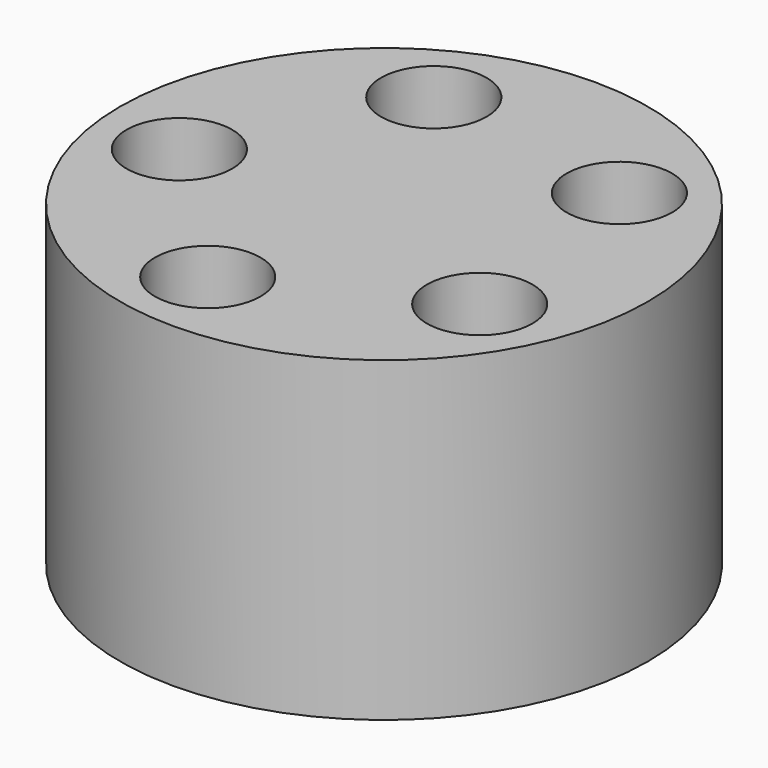
from build123d import *

# Parameters (mm, degrees)
F0_R     = 63.5
F1_DEPTH = 76.2
F2_R     = 12.7
F3_DEPTH = 76.201


with BuildPart() as f1:
    # F0 (on Top) → F1 (new body)
    with BuildSketch(Plane.XY):
        Circle(F0_R)
    extrude(amount=F1_DEPTH)

    # F2 (on face) → F3 (cut, through all)
    with BuildSketch(Plane.XY.offset(76.2)):
        with Locations((-19.843639245, 39.7747719229)):
            Circle(F2_R)
        with Locations((31.6960342644, 31.1635028825)):
            Circle(F2_R)
        with Locations((39.432865729, -20.514667933)):
            Circle(F2_R)
        with Locations((-7.3251829701, -43.842264933)):
            Circle(F2_R)
        with Locations((-43.9600777783, -6.5813419394)):
            Circle(F2_R)
    extrude(amount=-F3_DEPTH, mode=Mode.SUBTRACT)


solid = f1.part
